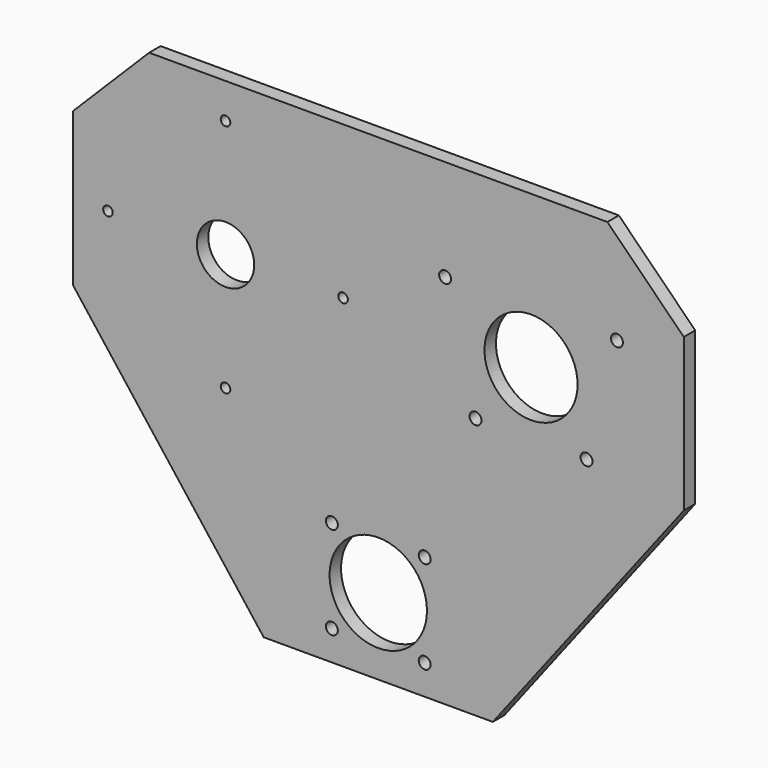
from build123d import *

# Parameters (mm, degrees)
F0_R     = 3.96875
F0_R_2   = 3.175
F0_R_3   = 32.385
F0_R_4   = 19.05
F0_R_5   = 30.95625
F1_DEPTH = 9.525


with BuildPart() as f1:
    # F0 (on Front) → F1 (new body)
    with BuildSketch(Plane.XZ):
        Polygon((-76.2, 0), (0, 0), (76.2, 0), (203.2, 165.1), (203.2, 266.7), (152.4, 317.5), (0, 317.5), (-152.4, 317.5), (-203.2, 266.7), (-203.2, 165.1), align=None)
        with Locations((-30.86963, 19.93037)):
            Circle(F0_R, mode=Mode.SUBTRACT)
        with Locations((-30.86963, 81.66963)):
            Circle(F0_R, mode=Mode.SUBTRACT)
        with Locations((-101.6, 137.715625)):
            Circle(F0_R_2, mode=Mode.SUBTRACT)
        with Locations((30.86963, 19.93037)):
            Circle(F0_R, mode=Mode.SUBTRACT)
        with Locations((0, 50.8)):
            Circle(F0_R_3, mode=Mode.SUBTRACT)
        with Locations((30.86963, 81.66963)):
            Circle(F0_R, mode=Mode.SUBTRACT)
        with Locations((-179.784375, 215.9)):
            Circle(F0_R_2, mode=Mode.SUBTRACT)
        with Locations((-101.6, 215.9)):
            Circle(F0_R_4, mode=Mode.SUBTRACT)
        with Locations((-23.415625, 215.9)):
            Circle(F0_R_2, mode=Mode.SUBTRACT)
        with Locations((-101.6, 294.084375)):
            Circle(F0_R_2, mode=Mode.SUBTRACT)
        with Locations((64.690625, 173.99)):
            Circle(F0_R, mode=Mode.SUBTRACT)
        with Locations((138.509375, 173.99)):
            Circle(F0_R, mode=Mode.SUBTRACT)
        with Locations((101.6, 215.9)):
            Circle(F0_R_5, mode=Mode.SUBTRACT)
        with Locations((44.45, 250.19)):
            Circle(F0_R, mode=Mode.SUBTRACT)
        with Locations((158.75, 250.19)):
            Circle(F0_R, mode=Mode.SUBTRACT)
    extrude(amount=F1_DEPTH)


solid = f1.part
